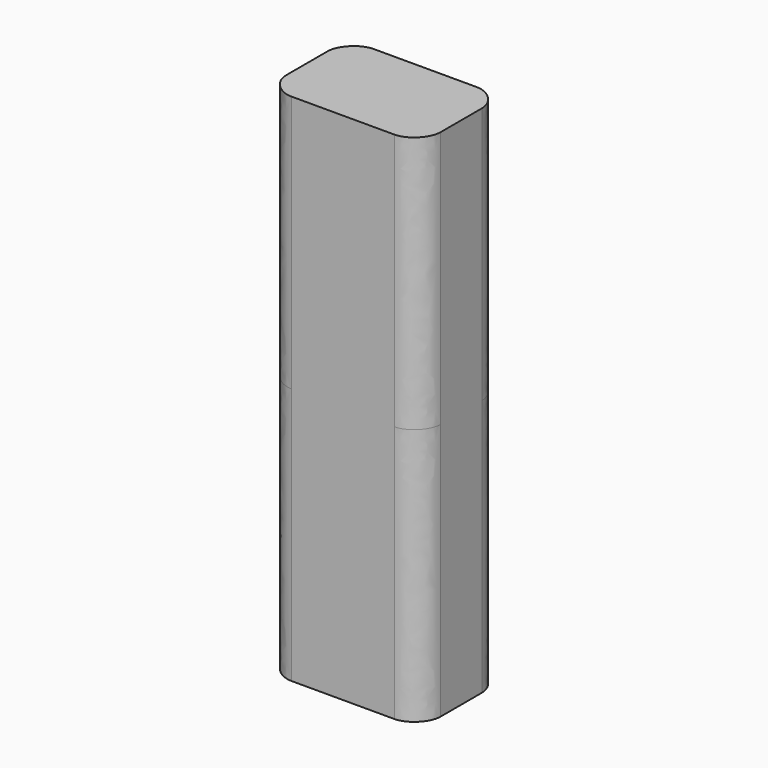
from build123d import *

# Parameters (mm, degrees)
F1_DEPTH = 50


with BuildPart() as f1:
    # F0 (on Top) → F1 (new body, symmetric)
    with BuildSketch(Plane.XY):
        with BuildLine():
            add(Edge.make_bspline(
                [(10, 10), (12.5, 10), (15, 7.5), (15, 5)],
                knots=[0, 0, 0, 0, 7.071068, 7.071068, 7.071068, 7.071068], degree=3))
            Line((10, 10), (-10, 10))
            add(Edge.make_bspline(
                [(-10, 10), (-12.5, 10), (-15, 7.5), (-15, 5)],
                knots=[0, 0, 0, 0, 7.071068, 7.071068, 7.071068, 7.071068], degree=3))
            Line((-15, 5), (-15, -5))
            add(Edge.make_bspline(
                [(-10, -10), (-12.5, -10), (-15, -7.5), (-15, -5)],
                knots=[0, 0, 0, 0, 7.071068, 7.071068, 7.071068, 7.071068], degree=3))
            Line((-10, -10), (10, -10))
            add(Edge.make_bspline(
                [(15, -5), (15, -7.5), (12.5, -10), (10, -10)],
                knots=[0, 0, 0, 0, 7.071068, 7.071068, 7.071068, 7.071068], degree=3))
            Line((15, -5), (15, 5))
        make_face()
    extrude(amount=F1_DEPTH, both=True)


solid = f1.part
